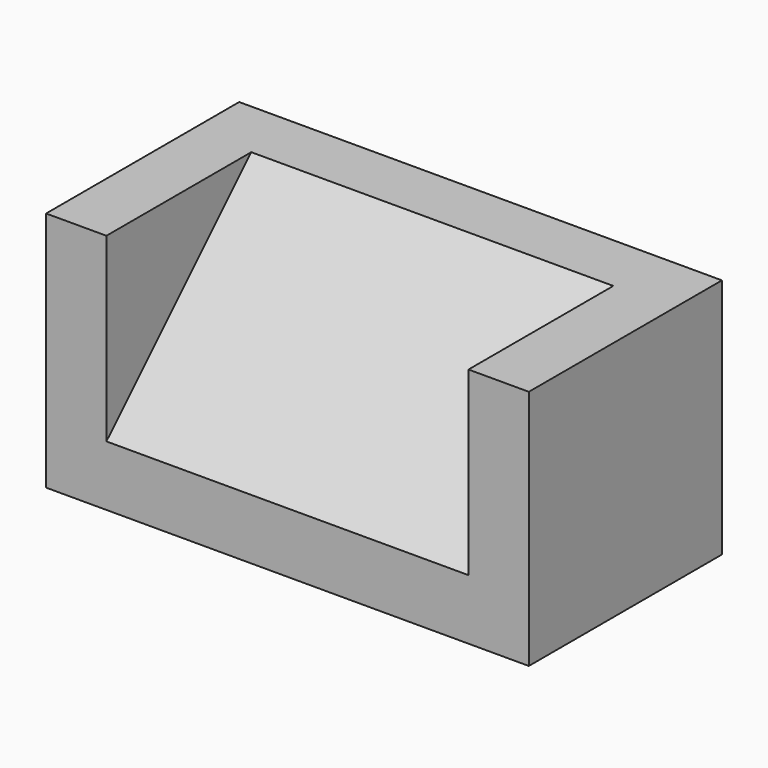
from build123d import *

# Parameters (mm, degrees)
F0_W     = 203.2
F0_H     = 101.6
F1_DEPTH = 101.6
F2_W     = 152.4
F2_H     = 76.2
F3_DEPTH = 76.2
F5_DEPTH = 152.4


with BuildPart() as f1:
    # F0 (on Front) → F1 (new body)
    with BuildSketch(Plane.XZ):
        Rectangle(F0_W, F0_H)
    extrude(amount=F1_DEPTH)

    # F2 (on face) → F3 (cut)
    with BuildSketch(Plane.XZ.offset(101.6)):
        with Locations((0, 12.7)):
            Rectangle(F2_W, F2_H)
    extrude(amount=-F3_DEPTH, mode=Mode.SUBTRACT)

    # F4 (on face) → F5 (join)
    with BuildSketch(Plane(origin=(76.2, 0, 0), x_dir=(0, -1, 0), z_dir=(-1, 0, 0))):
        Polygon((25.4, -25.4), (101.6, -25.4), (25.4, 50.8), align=None)
    extrude(amount=F5_DEPTH)


solid = f1.part
